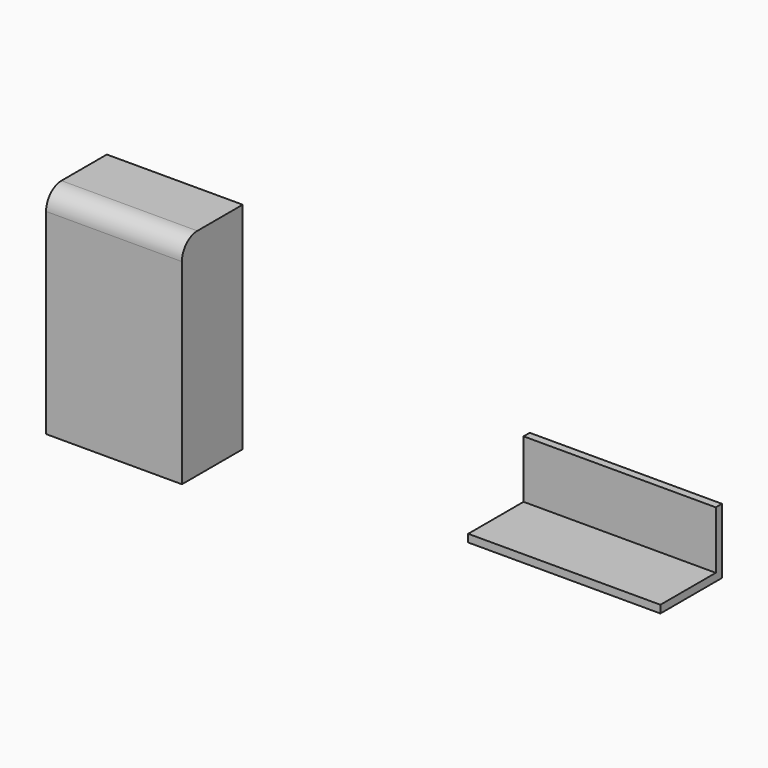
from build123d import *

# Parameters (mm, degrees)
F0_W     = 35.340104
F0_H     = 19.757069
F1_DEPTH = 56
F2_R     = 5
F3_W     = 50
F3_H     = 20
F4_DEPTH = 2
F5_W     = 50
F5_H     = 2
F6_DEPTH = 15


with BuildPart() as f1:
    # F0 (on Top) → F1 (new body)
    with BuildSketch(Plane.XY):
        with Locations((-34.78357, 21.983217)):
            Rectangle(F0_W, F0_H)
    extrude(amount=F1_DEPTH)

    # F2
    f2_edges = [f1.edges().sort_by_distance(p)[0] for p in [
        (-34.78357, 12.104683, 56),
    ]]
    fillet(f2_edges, radius=F2_R)


with BuildPart() as f4:
    # F3 (on Top) → F4 (new body)
    with BuildSketch(Plane.XY):
        with Locations((69.292186, 38.43203)):
            Rectangle(F3_W, F3_H)
    extrude(amount=F4_DEPTH)

    # F5 (on face) → F6 (join)
    with BuildSketch(Plane.XY.offset(2)):
        with Locations((69.292186, 47.43203)):
            Rectangle(F5_W, F5_H)
    extrude(amount=F6_DEPTH)


solid = Compound([f1.part, f4.part])
